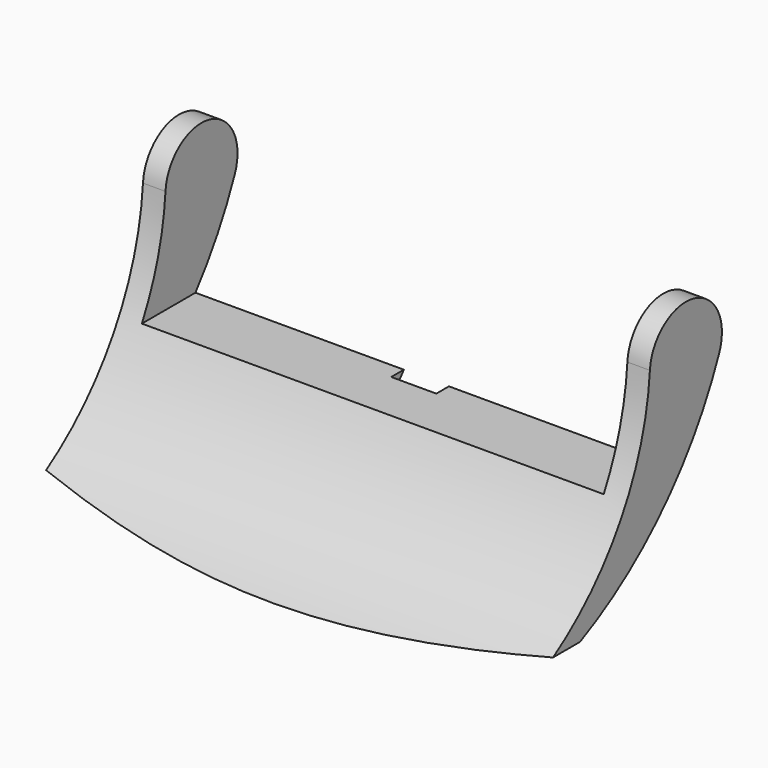
from build123d import *

# Parameters (mm, degrees)
PAD005_DEPTH    = 11.25
SKETCH036_W     = 20.5
SKETCH036_H     = 6.6332701871
POCKET002_DEPTH = 24.5032991847
POCKET003_DEPTH = 1


with BuildPart() as part:
    # Sketch035 → Pad005 (new body, symmetric)
    with BuildSketch(Plane.YZ):
        with BuildLine():
            ThreePointArc((13.3821850753, -37.5234542499), (18.3608599681, -33.5666154319), (20.5067387818, -27.5800486999))
            ThreePointArc((24.3536477534, -28.4698782284), (22.9530190653, -25.7646841778), (20.5067387818, -27.5800486999))
            ThreePointArc((13.4426775015, -37.713318887), (20.0290903971, -34.4265472751), (24.3536477534, -28.4698782284))
            ThreePointArc((13.3821850753, -37.5234542499), (13.3252924513, -37.6461497146), (13.4426775015, -37.713318887))
        make_face()
    extrude(amount=PAD005_DEPTH, both=True)

    # Sketch036 → Pocket002 (cut, through all)
    with BuildSketch(Plane.XZ):
        with Locations((0, -28.8966837934)):
            Rectangle(SKETCH036_W, SKETCH036_H)
        with BuildLine():
            ThreePointArc((-12.5299423012, -36.4092487677), (0, -37.463318887), (12.5299423012, -36.4092487677))
            Line((12.5299423012, -40.220734), (12.5299423012, -36.4092487677))
            Line((-12.5299423012, -40.220734), (12.5299423012, -40.220734))
            Line((-12.5299423012, -36.4092487677), (-12.5299423012, -40.220734))
        make_face()
    extrude(amount=-POCKET002_DEPTH, mode=Mode.SUBTRACT)

    # Sketch037 → Pocket003 (cut, symmetric)
    with BuildSketch(Plane.YZ):
        with BuildLine():
            Line((22.16829374, -32.213318887), (21.46829374, -32.213318887))
            Line((21.46829374, -32.213318887), (21.46829374, -33.0380523289))
            ThreePointArc((21.46829374, -33.0380523289), (21.8254978862, -32.6318001925), (22.16829374, -32.213318887))
        make_face()
    extrude(amount=POCKET003_DEPTH, both=True, mode=Mode.SUBTRACT)


solid = part.part
